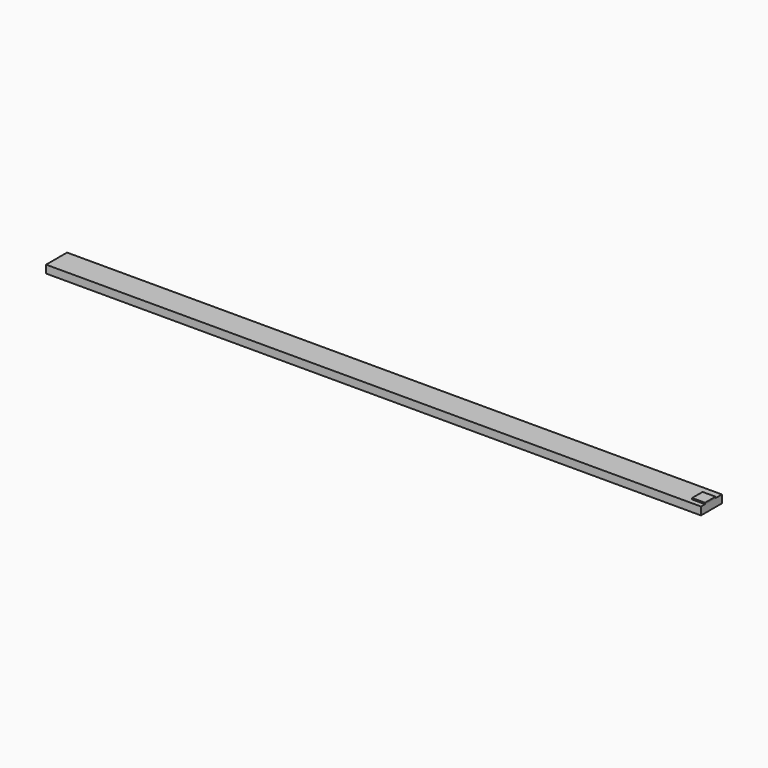
from build123d import *

# Parameters (mm, degrees)
F1_DEPTH = 6
F2_W     = 9.850653
F2_H     = 10
F3_DEPTH = 1


with BuildPart() as f1:
    # F0 (on Top) → F1 (new body)
    with BuildSketch(Plane.XY):
        Polygon((262.434564, -69.659687), (-237.565436, -69.659687), (-237.565436, -79.659687), (-237.565436, -89.659687), (262.434564, -89.659687), align=None)
    extrude(amount=F1_DEPTH)

    # F2 (on face) → F3 (join)
    with BuildSketch(Plane.XY.offset(6)):
        with Locations((257.509237, -80.809791)):
            Rectangle(F2_W, F2_H)
    extrude(amount=F3_DEPTH)


solid = f1.part
